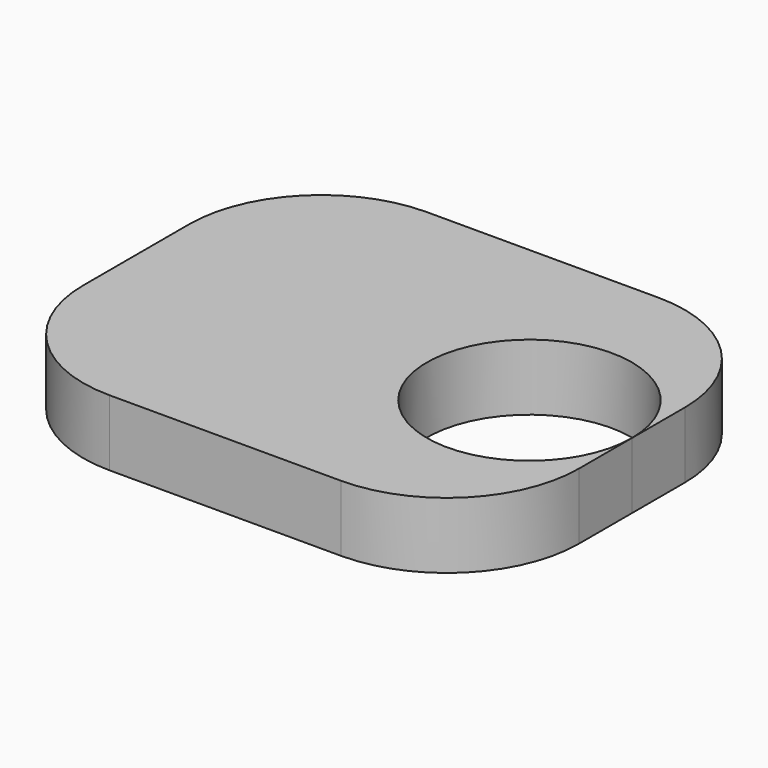
from build123d import *

# Parameters (mm, degrees)
SKETCH_W  = 7.5
SKETCH_H  = 6
SKETCH_R  = 1.55
PAD_DEPTH = 1
FILLET_R  = 2


with BuildPart() as part:
    # Sketch → Pad (new body)
    with BuildSketch(Plane.XY):
        Rectangle(SKETCH_W, SKETCH_H)
        with Locations((2.2, 0)):
            Circle(SKETCH_R, mode=Mode.SUBTRACT)
    extrude(amount=PAD_DEPTH)

    # Fillet
    fillet_edges = [part.edges().sort_by_distance(p)[0] for p in [
        (-3.75, -3, 0.5),
        (3.75, -3, 0.5),
        (3.75, 3, 0.5),
        (-3.75, 3, 0.5),
    ]]
    fillet(fillet_edges, radius=FILLET_R)


solid = part.part
